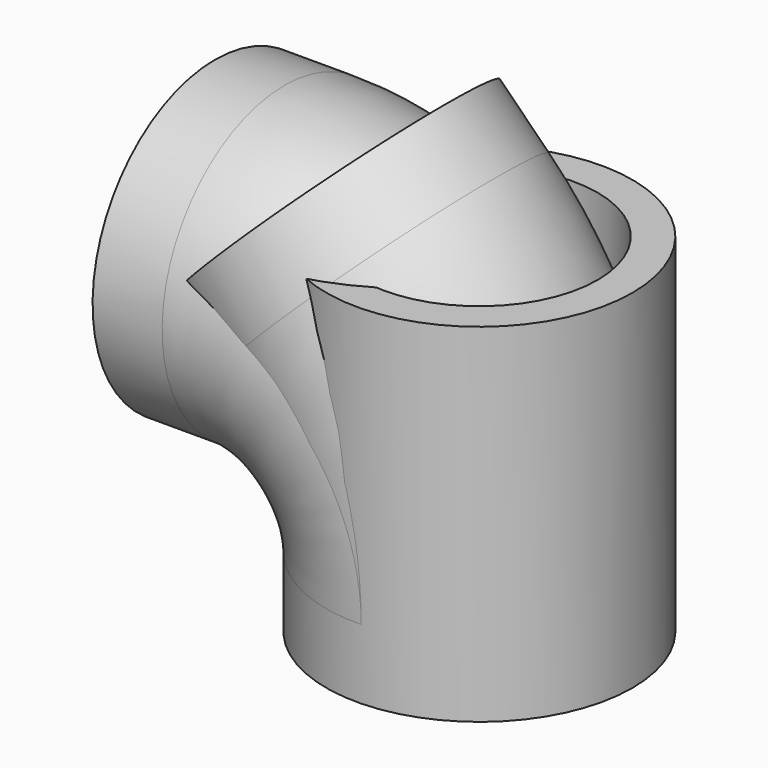
from build123d import *

# Parameters (mm, degrees)
F1_R     = 22
F1_R_2   = 17
F5_DEPTH = 50


with BuildPart() as f2:
    # F2: sweep along a path in F0
    with BuildLine(Plane.XZ) as f2_path:
        Line((0, 0), (0, 10))
        ThreePointArc((0, 10), (-8.2010101268, 29.7989898732), (-28, 38))
        Line((-28, 38), (-38, 38))
    # F1 (on Top) → F2 (sweep)
    with BuildSketch(Plane.XY):
        Circle(F1_R)
        Circle(F1_R_2, mode=Mode.SUBTRACT)
    sweep(path=f2_path.line)


with BuildPart() as f4:
    # F4: sweep along a path in F3
    with BuildLine(Plane.XZ) as f4_path:
        Line((0, 0), (0, 10))
        ThreePointArc((0, 10), (-3.4916502347, 27.5537111177), (-13.4350288425, 42.4350288425))
        Line((-13.4350288425, 42.4350288425), (-20.5060966544, 49.5060966544))
    # F1 (on Top) → F4 (sweep)
    with BuildSketch(Plane.XY):
        Circle(F1_R)
        Circle(F1_R_2, mode=Mode.SUBTRACT)
    sweep(path=f4_path.line)


with BuildPart() as f5:
    # F1 (on Top) → F5 (new body)
    with BuildSketch(Plane.XY):
        Circle(F1_R)
        Circle(F1_R_2, mode=Mode.SUBTRACT)
    extrude(amount=F5_DEPTH)


solid = Compound([f2.part, f4.part, f5.part])
